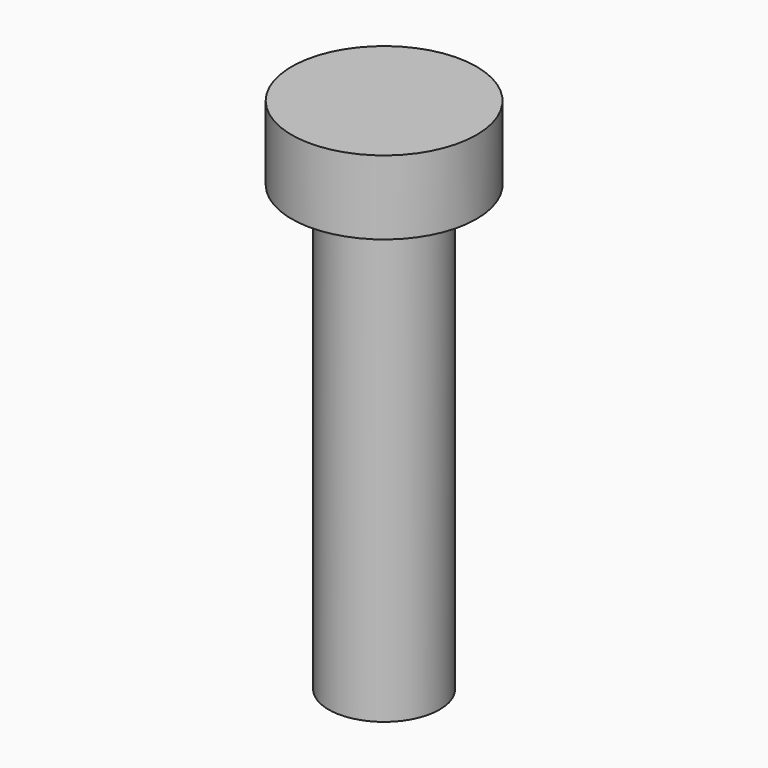
from build123d import *

# Parameters (mm, degrees)
F0_W = 4.7625
F0_H = 38.1


with BuildPart() as f1:
    # F0 (on Front) → F1 (revolve)
    with BuildSketch(Plane.XZ):
        with Locations((15.507436, -29.80087)):
            Rectangle(F0_W, F0_H)
    revolve(axis=Axis((13.126186, 0, -29.80087), (0, 0, 1)))

    # F0 (on Front) → F2 (revolve)
    with BuildSketch(Plane.XZ):
        Polygon((13.126186, -4.40087), (13.126186, -10.75087), (17.888686, -10.75087), (21.063686, -10.75087), (21.063686, -4.40087), align=None)
    revolve(axis=Axis((13.126186, 0, -7.57587), (0, 0, 1)))


solid = f1.part
